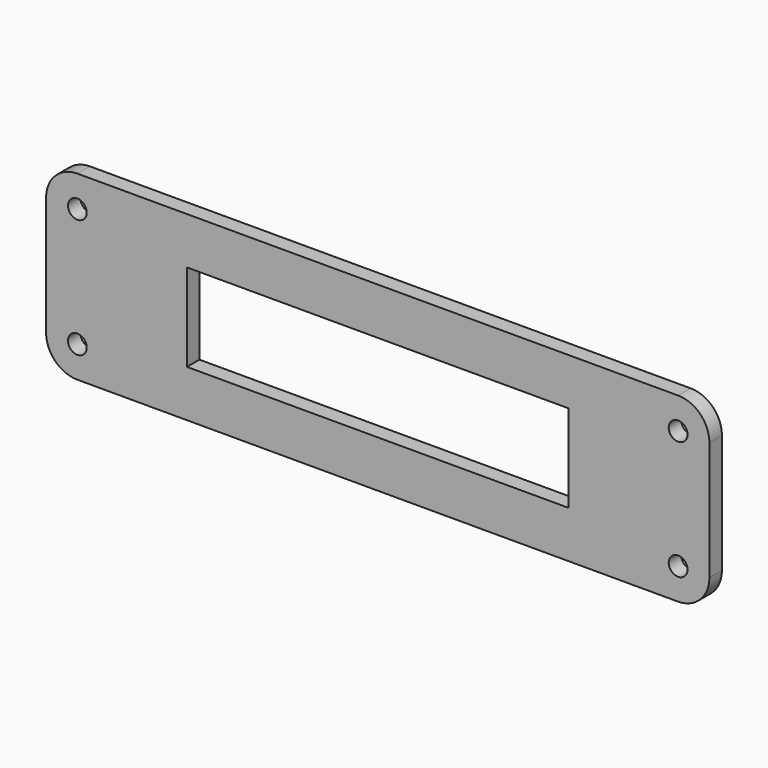
from build123d import *

# Parameters (mm, degrees)
F0_R     = 1.5
F1_DEPTH = 2.5


with BuildPart() as f1:
    # F0 (on Front) → F1 (new body)
    with BuildSketch(Plane.XZ):
        with BuildLine():
            ThreePointArc((0, 5), (1.464466, 1.464466), (5, 0))
            Line((5, 0), (101, 0))
            ThreePointArc((101, 0), (104.535534, 1.464466), (106, 5))
            Line((106, 5), (106, 24))
            ThreePointArc((106, 24), (104.535534, 27.535534), (101, 29))
            Line((101, 29), (5, 29))
            ThreePointArc((5, 29), (1.464466, 27.535534), (0, 24))
            Line((0, 24), (0, 5))
        make_face()
        with Locations((5, 5)):
            Circle(F0_R, mode=Mode.SUBTRACT)
        with Locations((101, 5)):
            Circle(F0_R, mode=Mode.SUBTRACT)
        Polygon((34.978612, 7.5), (22.5, 7.5), (22.5, 21.5), (34.978612, 21.5), (71.021388, 21.5), (83.5, 21.5), (83.5, 7.5), (80.733522, 7.5), align=None, mode=Mode.SUBTRACT)
        with Locations((5, 24)):
            Circle(F0_R, mode=Mode.SUBTRACT)
        with Locations((101, 24)):
            Circle(F0_R, mode=Mode.SUBTRACT)
    extrude(amount=F1_DEPTH)


solid = f1.part
